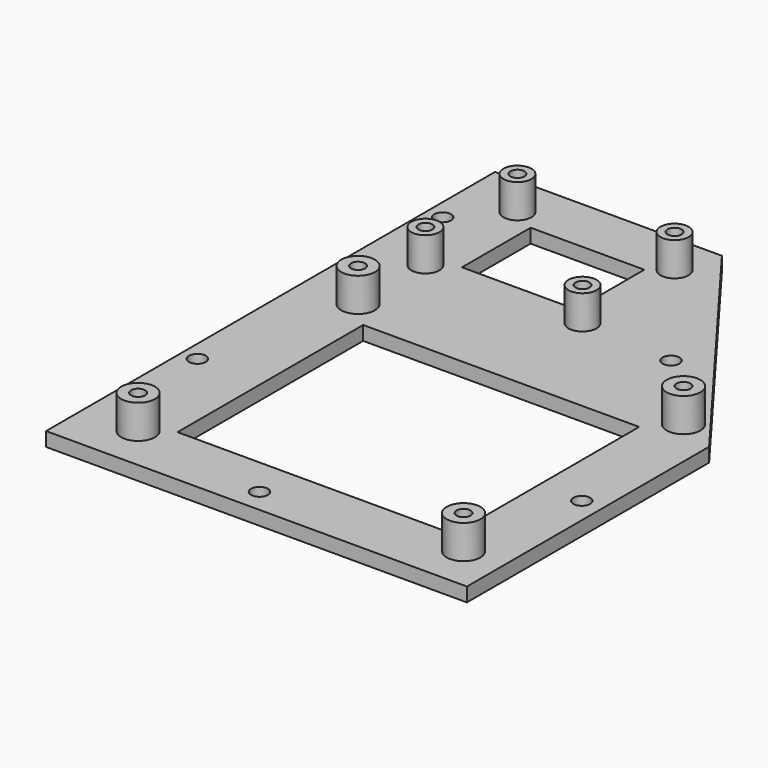
from build123d import *

# Parameters (mm, degrees)
F1_R     = 3
F1_R_2   = 1.25
F1_R_3   = 2.5
F2_DEPTH = 6
F4_DEPTH = 2.5
F3_W     = 49.178135
F3_H     = 41.35703
F3_W_2   = 20.263761
F3_H_2   = 15.286692
F5_DEPTH = 25
F6_R     = 1.5
F7_DEPTH = 25


with BuildPart() as f2:
    # F1 (on Top) → F2 (new body)
    with BuildSketch(Plane.XY):
        with Locations((10, 8)):
            Circle(F1_R)
        with Locations((10, 8)):
            Circle(F1_R_2, mode=Mode.SUBTRACT)
        with Locations((10, 57)):
            Circle(F1_R)
        with Locations((10, 57)):
            Circle(F1_R_2, mode=Mode.SUBTRACT)
        with Locations((68, 8)):
            Circle(F1_R)
        with Locations((68, 8)):
            Circle(F1_R_2, mode=Mode.SUBTRACT)
        with Locations((68, 57)):
            Circle(F1_R)
        with Locations((68, 57)):
            Circle(F1_R_2, mode=Mode.SUBTRACT)
        with Locations((10, 72)):
            Circle(F1_R_3)
        with Locations((10, 72)):
            Circle(F1_R_2, mode=Mode.SUBTRACT)
        with Locations((10, 92.5)):
            Circle(F1_R_3)
        with Locations((10, 92.5)):
            Circle(F1_R_2, mode=Mode.SUBTRACT)
        with Locations((38, 72)):
            Circle(F1_R_3)
        with Locations((38, 72)):
            Circle(F1_R_2, mode=Mode.SUBTRACT)
        with Locations((38, 92.5)):
            Circle(F1_R_3)
        with Locations((38, 92.5)):
            Circle(F1_R_2, mode=Mode.SUBTRACT)
    extrude(amount=F2_DEPTH)


with BuildPart() as f4:
    # F0 (on Top) → F4 (new body)
    with BuildSketch(Plane.XY):
        Polygon((0, 100), (0, 0), (75, 0), (75, 53.94689), (40.439963, 100), align=None)
    extrude(amount=-F4_DEPTH)

    # F3 (on Top) → F5 (cut)
    with BuildSketch(Plane.XY):
        with Locations((39.077194, 31.846353)):
            Rectangle(F3_W, F3_H)
        with Locations((24.501506, 82.328003)):
            Rectangle(F3_W_2, F3_H_2)
    extrude(amount=-F5_DEPTH, mode=Mode.SUBTRACT)

    # F6 (on face) → F7 (cut)
    with BuildSketch(Plane.XY):
        with Locations((2.854123, 84.772676)):
            Circle(F6_R)
        with Locations((2.854123, 30.136598)):
            Circle(F6_R)
        with Locations((54.636084, 70.909791)):
            Circle(F6_R)
        with Locations((71.353093, 30.136598)):
            Circle(F6_R)
        with Locations((34.633387, 4.245619)):
            Circle(F6_R)
    extrude(amount=-F7_DEPTH, mode=Mode.SUBTRACT)


solid = Compound([f2.part, f4.part])
